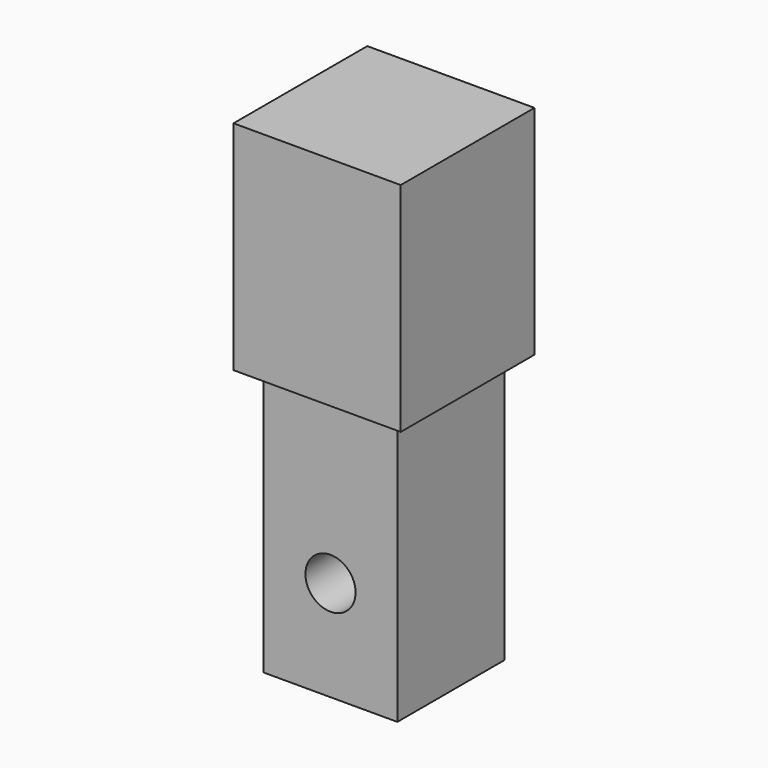
from build123d import *

# Parameters (mm, degrees)
F0_W     = 31.75
F0_H     = 31.75
F1_DEPTH = 41.275
F2_W     = 25.4
F2_H     = 25.4
F3_DEPTH = 50.8
F4_R     = 4.7625
F5_DEPTH = 28.576


with BuildPart() as f1:
    # F0 (on Top) → F1 (new body)
    with BuildSketch(Plane.XY):
        with Locations((15.875, 15.875)):
            Rectangle(F0_W, F0_H)
    extrude(amount=F1_DEPTH)

    # F2 (on face) → F3 (join)
    with BuildSketch(Plane(origin=(0, 0, 0), x_dir=(1, 0, 0), z_dir=(0, 0, -1))):
        with Locations((15.875, -15.875)):
            Rectangle(F2_W, F2_H)
    extrude(amount=F3_DEPTH)

    # F4 (on face) → F5 (cut, through all)
    with BuildSketch(Plane.XZ.offset(-3.175)):
        with Locations((15.875, -31.75)):
            Circle(F4_R)
    extrude(amount=-F5_DEPTH, mode=Mode.SUBTRACT)


solid = f1.part
